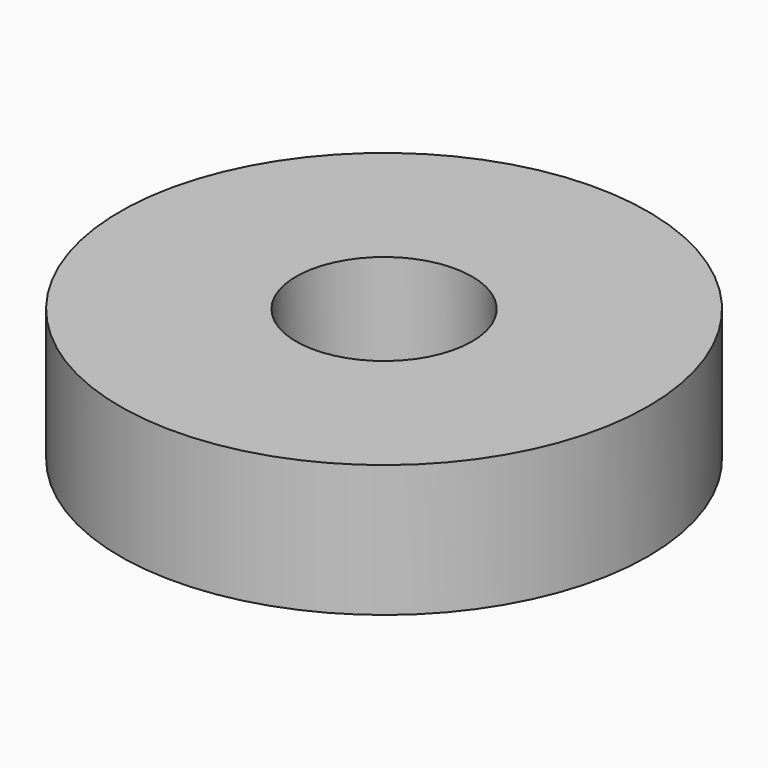
from build123d import *

# Parameters (mm, degrees)
SKETCH_R     = 3
PAD_DEPTH    = 1.5
SKETCH001_R  = 1
POCKET_DEPTH = 1.5


with BuildPart() as part:
    # Sketch → Pad (new body)
    with BuildSketch(Plane.XY):
        Circle(SKETCH_R)
    extrude(amount=PAD_DEPTH)

    # Sketch001 (on Face3 of Pad) → Pocket (cut)
    with BuildSketch(Plane.XY.offset(1.5)):
        Circle(SKETCH001_R)
    extrude(amount=-POCKET_DEPTH, mode=Mode.SUBTRACT)


solid = part.part
